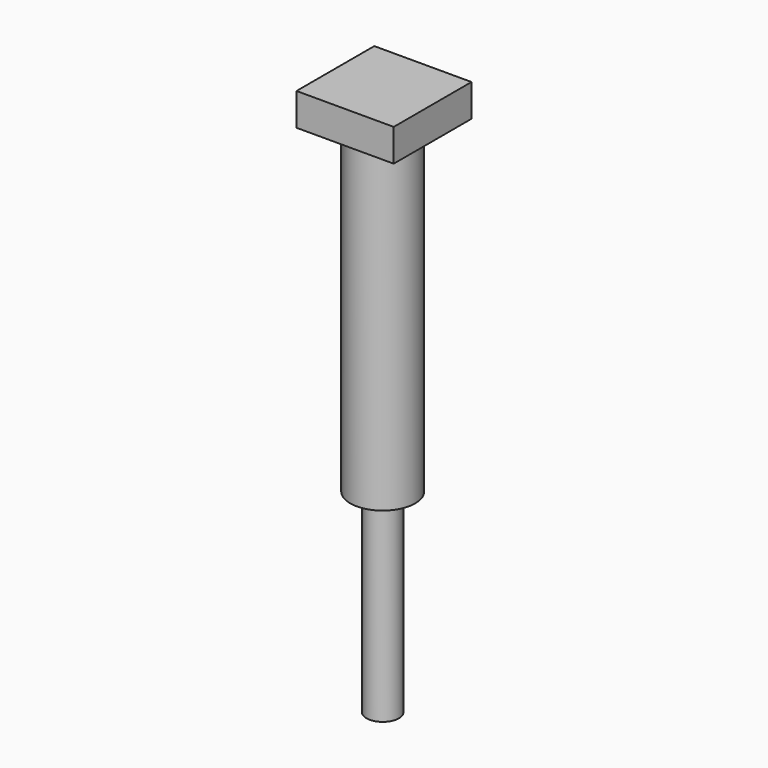
from build123d import *

# Parameters (mm, degrees)
F0_W     = 7.62
F0_H     = 7.62
F1_DEPTH = 2.54
F2_R     = 1.27
F3_DEPTH = 40.64
F4_R     = 0.254
F5_DEPTH = 2.54
F2_R_2   = 2.54
F6_DEPTH = 25.4


with BuildPart() as f1:
    # F0 (on Top) → F1 (new body)
    with BuildSketch(Plane.XY):
        with Locations((-38.795546, -21.835937)):
            Rectangle(F0_W, F0_H)
    extrude(amount=F1_DEPTH)

    # F2 (on face) → F3 (join)
    with BuildSketch(Plane(origin=(0, 0, 0), x_dir=(1, 0, 0), z_dir=(0, 0, -1))):
        with Locations((-38.854431, 21.888208)):
            Circle(F2_R)
    extrude(amount=F3_DEPTH)

    # F4 (on face) → F5 (cut)
    with BuildSketch(Plane(origin=(0, 0, -40.64), x_dir=(1, 0, 0), z_dir=(0, 0, -1))):
        with Locations((-38.854431, 21.888208)):
            Circle(F4_R)
    extrude(amount=-F5_DEPTH, mode=Mode.SUBTRACT)

    # F2 (on face) → F6 (join)
    with BuildSketch(Plane(origin=(0, 0, 0), x_dir=(1, 0, 0), z_dir=(0, 0, -1))):
        with Locations((-38.854431, 21.888208)):
            Circle(F2_R_2)
        with Locations((-38.854431, 21.888208)):
            Circle(F2_R, mode=Mode.SUBTRACT)
    extrude(amount=F6_DEPTH)


solid = f1.part
